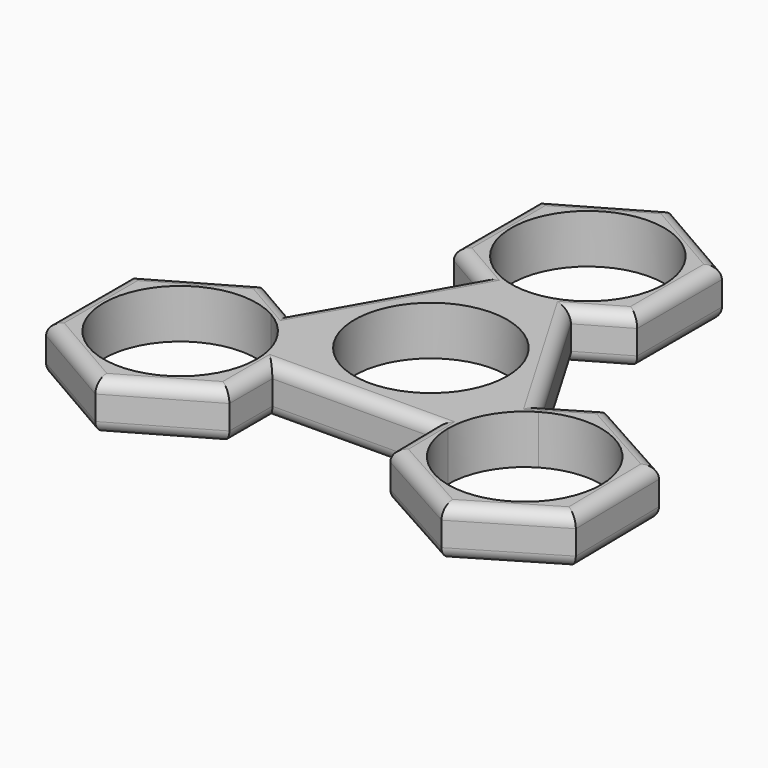
from build123d import *

# Parameters (mm, degrees)
F0_R     = 11.075
F1_DEPTH = 7.1
F2_R     = 1.8


with BuildPart() as f1:
    # F0 (on Top) → F1 (new body)
    with BuildSketch(Plane.XY):
        with BuildLine():
            ThreePointArc((10.883850477, 28.6876300688), (9.4184768424, 23.182114097), (5.4101337969, 19.1335079129))
            Line((5.4101337969, 19.1335079129), (6.5345129791, 17.2156516926))
            Line((6.5345129791, 17.2156516926), (13.1067064335, 21.0101093527))
            Line((13.1067064335, 21.0101093527), (13.1067064335, 36.365150785))
            Line((13.1067064335, 36.365150785), (-0.191149523, 44.0426715011))
            Line((-0.191149523, 44.0426715011), (-13.4890054796, 36.365150785))
            Line((-13.4890054796, 36.365150785), (-13.4890054796, 21.0101093527))
            Line((-13.4890054796, 21.0101093527), (-6.7633429774, 17.1270462966))
            Line((-6.7633429774, 17.1270462966), (-5.664620361, 19.059715342))
            ThreePointArc((-5.664620361, 19.059715342), (-5.7605720905, 38.2603599441), (10.883850477, 28.6876300688))
        make_face()
        with BuildLine():
            Line((6.5345129791, 17.2156516926), (5.4101337969, 19.1335079129))
            ThreePointArc((5.4101337969, 19.1335079129), (-0.1173569522, 17.612875911), (-5.664620361, 19.059715342))
            Line((-5.664620361, 19.059715342), (-6.7633429774, 17.1270462966))
            Line((-6.7633429774, 17.1270462966), (-0.191149523, 13.3325886365))
            Line((-0.191149523, 13.3325886365), (6.5345129791, 17.2156516926))
        make_face()
        Polygon((18.2140135788, -2.7060999984), (6.5345129791, 17.2156516926), (-0.191149523, 13.3325886365), (-6.7633429774, 17.1270462966), (-18.1763357298, -2.9485737718), (-11.4438602402, -6.8435092462), (-11.4505581332, -14.420748465), (11.6417076562, -14.2668816039), (11.5340385205, -6.6904044278), align=None)
        Circle(F0_R, mode=Mode.SUBTRACT)
        with BuildLine():
            Line((24.7216007166, 1.1753827964), (18.2140135788, -2.7060999984))
            Line((18.2140135788, -2.7060999984), (19.3385078556, -4.6241525356))
            ThreePointArc((19.3385078556, -4.6241525356), (30.4453071473, -4.5686483261), (36.0147911755, -14.1782746915))
            ThreePointArc((36.0147911755, -14.1782746915), (24.9766876657, -25.2532132308), (13.8650370177, -14.2520672624))
            Line((13.8650370177, -14.2520672624), (11.6417076562, -14.2668816039))
            Line((11.6417076562, -14.2668816039), (11.7522289794, -22.0440619158))
            Line((11.7522289794, -22.0440619158), (25.1579816344, -29.5319321795))
            Line((25.1579816344, -29.5319321795), (38.3455438305, -21.6661449552))
            Line((38.3455438305, -21.6661449552), (38.1273533716, -6.3124874673))
            Line((38.1273533716, -6.3124874673), (24.7216007166, 1.1753827964))
        make_face()
        with BuildLine():
            Line((19.3385078556, -4.6241525356), (18.2140135788, -2.7060999984))
            Line((18.2140135788, -2.7060999984), (11.5340385205, -6.6904044278))
            Line((11.5340385205, -6.6904044278), (11.6417076562, -14.2668816039))
            Line((11.6417076562, -14.2668816039), (13.8650370177, -14.2520672624))
            ThreePointArc((13.8650370177, -14.2520672624), (15.3118764487, -8.7048038536), (19.3385078556, -4.6241525356))
        make_face()
        with BuildLine():
            Line((-11.4438602402, -6.8435092462), (-18.1763357298, -2.9485737718))
            Line((-18.1763357298, -2.9485737718), (-19.2751708145, -4.8814406505))
            ThreePointArc((-19.2751708145, -4.8814406505), (-15.1945194965, -8.9080720574), (-13.6738874946, -14.4355628064))
            Line((-13.6738874946, -14.4355628064), (-11.4505581332, -14.420748465))
            Line((-11.4505581332, -14.420748465), (-11.4438602402, -6.8435092462))
        make_face()
        with BuildLine():
            Line((-19.2751708145, -4.8814406505), (-18.1763357298, -2.9485737718))
            Line((-18.1763357298, -2.9485737718), (-24.7350684373, 0.8458463831))
            Line((-24.7350684373, 0.8458463831), (-38.0398498496, -6.819999748))
            Line((-38.0398498496, -6.819999748), (-38.0534230647, -22.1752015083))
            Line((-38.0534230647, -22.1752015083), (-24.7622148676, -29.8645571376))
            Line((-24.7622148676, -29.8645571376), (-11.4574334553, -22.1987110066))
            Line((-11.4574334553, -22.1987110066), (-11.4505581332, -14.420748465))
            Line((-11.4505581332, -14.420748465), (-13.6738874946, -14.4355628064))
            ThreePointArc((-13.6738874946, -14.4355628064), (-13.6737031132, -14.4724588871), (-13.6736416525, -14.5093553773))
            ThreePointArc((-13.6736416525, -14.5093553773), (-34.3213715277, -20.0787779447), (-19.2751708145, -4.8814406505))
        make_face()
    extrude(amount=F1_DEPTH)

    # F2
    f2_edges = [f1.edges().sort_by_distance(p)[0] for p in [
        (-18.109824, -26.031634, 7.1),
        (0.095575, -14.343815, 7.1),
        (18.455105, -25.787997, 7.1),
        (31.751763, -25.599039, 7.1),
        (38.236449, -13.989316, 7.1),
        (31.424477, -2.568552, 7.1),
        (21.467807, -0.765359, 7.1),
        (12.374263, 7.254776, 7.1),
        (-31.407819, -26.019879, 7.1),
        (-38.046636, -14.497601, 7.1),
        (-31.387459, -2.987077, 7.1),
        (-21.455702, -1.051364, 7.1),
        (-12.469839, 7.089236, 7.1),
        (-10.126174, 19.068578, 7.1),
        (-13.489005, 28.68763, 7.1),
        (-6.840078, 40.203911, 7.1),
        (6.457778, 40.203911, 7.1),
        (13.106706, 28.68763, 7.1),
        (9.82061, 19.112881, 7.1),
        (31.424477, -2.568552, 0),
        (21.467807, -0.765359, 0),
        (12.374263, 7.254776, 0),
        (9.82061, 19.112881, 0),
        (13.106706, 28.68763, 0),
        (6.457778, 40.203911, 0),
        (-6.840078, 40.203911, 0),
        (-13.489005, 28.68763, 0),
        (-10.126174, 19.068578, 0),
        (-12.469839, 7.089236, 0),
        (-21.455702, -1.051364, 0),
        (-31.387459, -2.987077, 0),
        (-38.046636, -14.497601, 0),
        (-31.407819, -26.019879, 0),
        (-18.109824, -26.031634, 0),
        (-11.453996, -18.30973, 0),
        (0.095575, -14.343815, 0),
        (11.696968, -18.155472, 0),
        (18.455105, -25.787997, 0),
        (31.751763, -25.599039, 0),
        (38.236449, -13.989316, 0),
        (-11.453996, -18.30973, 7.1),
        (11.696968, -18.155472, 7.1),
    ]]
    fillet(f2_edges, radius=F2_R)


solid = f1.part
